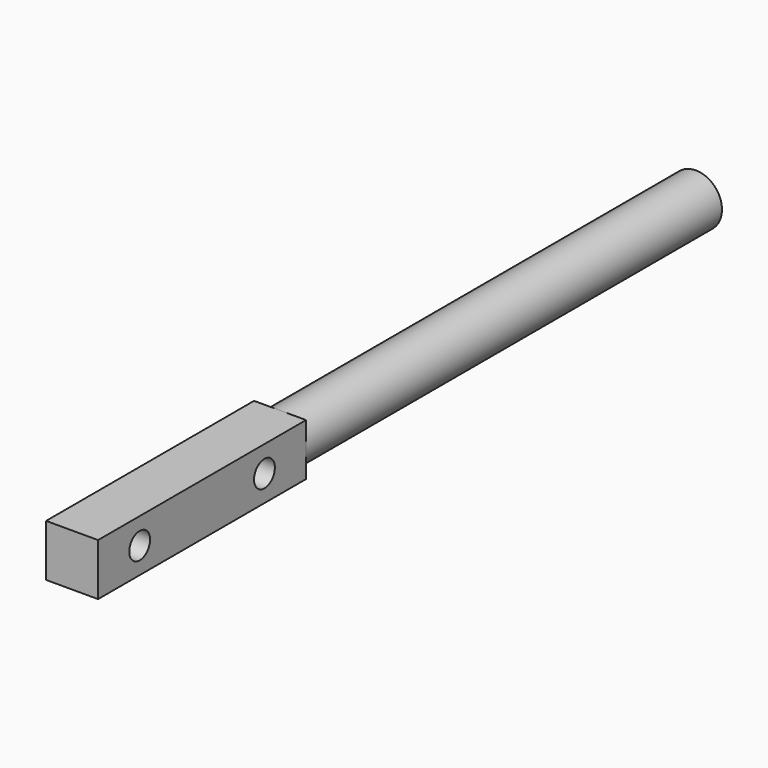
from build123d import *

# Parameters (mm, degrees)
F0_W     = 63.5
F0_H     = 12.7
F0_R     = 3.175
F1_DEPTH = 12.7
F2_R     = 6.35
F3_DEPTH = 127


with BuildPart() as f1:
    # F0 (on Right) → F1 (new body)
    with BuildSketch(Plane.YZ):
        with Locations((-31.75, 6.35)):
            Rectangle(F0_W, F0_H)
        with Locations((-50.8, 6.35)):
            Circle(F0_R, mode=Mode.SUBTRACT)
        with Locations((-12.7, 6.35)):
            Circle(F0_R, mode=Mode.SUBTRACT)
    extrude(amount=F1_DEPTH)

    # F2 (on face) → F3 (join)
    with BuildSketch(Plane(origin=(0, 0, 0), x_dir=(-1, 0, 0), z_dir=(0, 1, 0))):
        with Locations((-6.35, 6.35)):
            Circle(F2_R)
    extrude(amount=F3_DEPTH)


solid = f1.part
